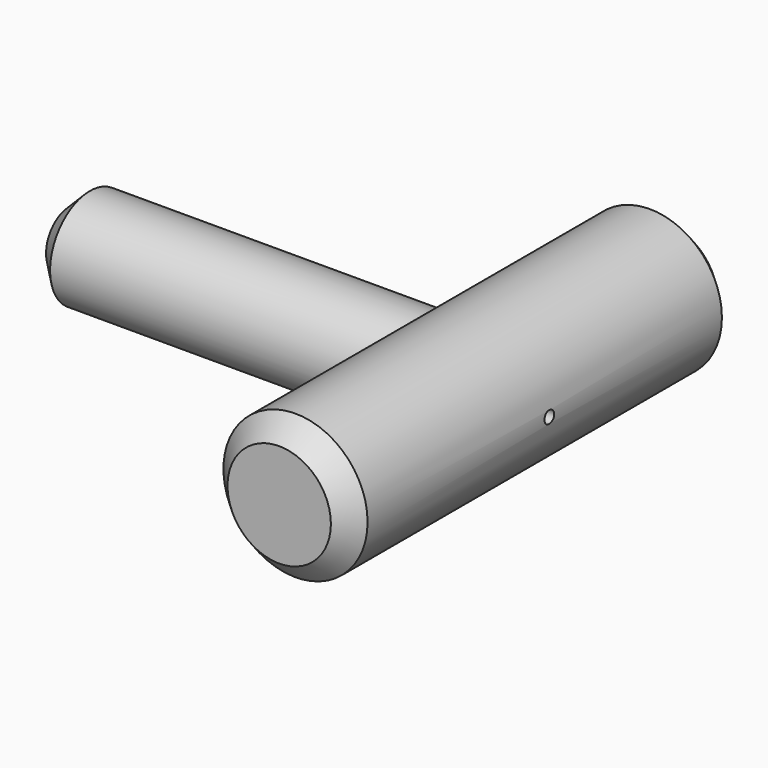
from build123d import *

# Parameters (mm, degrees)
F0_R     = 44.893499
F1_DEPTH = 301.28476
F2_SIZE  = 12.7
F3_R     = 30.964692
F4_DEPTH = 254
F5_SIZE  = 12.7
F7_D     = 7.62


with BuildPart() as f1:
    # F0 (on Front) → F1 (new body)
    with BuildSketch(Plane.XZ):
        Circle(F0_R)
    extrude(amount=F1_DEPTH)

    # F2
    f2_edges = [f1.edges().sort_by_distance(p)[0] for p in [
        (44.893499, -150.64238, 0),
        (-44.893499, 0, 0),
        (-44.893499, -301.28476, 0),
    ]]
    chamfer(f2_edges, length=F2_SIZE)

    # F3 (on Right) → F4 (join)
    with BuildSketch(Plane.YZ):
        with Locations((-147.05956, 0)):
            Circle(F3_R)
    extrude(amount=-F4_DEPTH)

    # F5
    f5_edges = [f1.edges().sort_by_distance(p)[0] for p in [
        (-254, -178.024252, 0),
    ]]
    chamfer(f5_edges, length=F5_SIZE)

    # F7 (through all)
    with Locations(Plane(origin=(-254, 0, 0), x_dir=(0, -1, 0), z_dir=(-1, 0, 0))):
        with Locations((147.05956, 0)):
            Hole(F7_D / 2)


solid = f1.part
